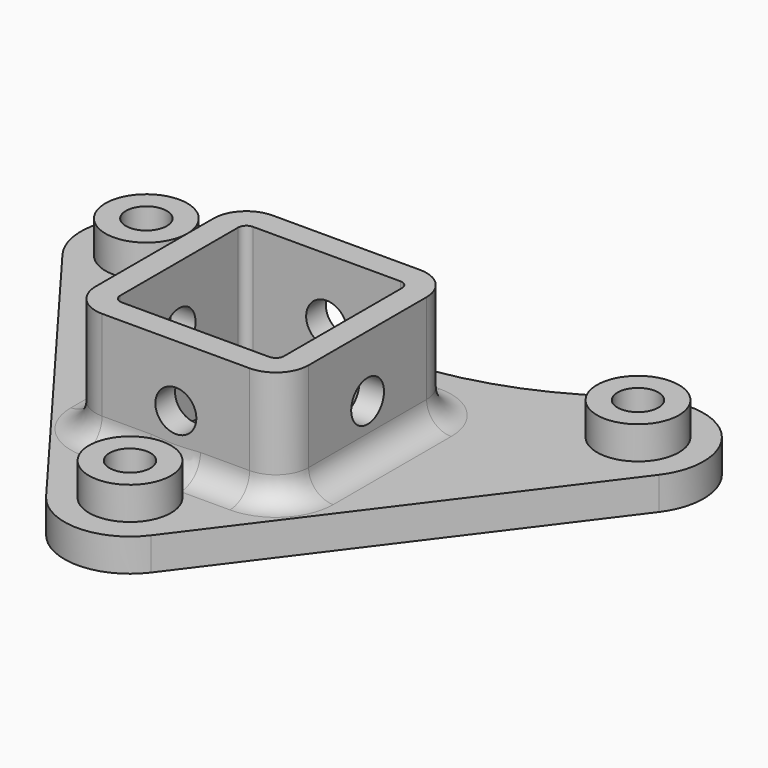
from build123d import *

# Parameters (mm, degrees)
SKETCH102_R           = 2.5
PAD036_DEPTH          = 4
PAD037_DEPTH          = 14
SKETCH104_R           = 2.5
POCKET030_DEPTH       = 4.5
POLARPATTERN018_COUNT = 4
SKETCH105_R           = 5
SKETCH105_R_2         = 2.5
PAD038_DEPTH          = 4
FILLET008_R           = 3


with BuildPart() as part:
    # Sketch102 → Pad036 (new body)
    with BuildSketch(Plane.XY):
        with BuildLine():
            Line((36.4, 15.2), (6.4, -24.8))
            ThreePointArc((-6.4, -24.8), (0, -28), (6.4, -24.8))
            Line((-6.4, -24.8), (-36.4, 15.2))
            ThreePointArc((-25.905574, 26.872821), (-35.949169, 25.348588), (-36.4, 15.2))
            Line((-25.905574, 26.872821), (-20.472131, 23.635893))
            ThreePointArc((-20.472131, 23.635893), (0, 18), (20.472131, 23.635893))
            Line((25.905574, 26.872821), (20.472131, 23.635893))
            ThreePointArc((36.4, 15.2), (35.949169, 25.348588), (25.905574, 26.872821))
        make_face()
        with Locations((30, 20)):
            Circle(SKETCH102_R, mode=Mode.SUBTRACT)
        with Locations((-30, 20)):
            Circle(SKETCH102_R, mode=Mode.SUBTRACT)
        with Locations((0, -20)):
            Circle(SKETCH102_R, mode=Mode.SUBTRACT)
        with BuildLine():
            Line((-9, -10), (9, -10))
            ThreePointArc((9, -10), (9.707107, -9.707107), (10, -9))
            Line((10, -9), (10, 9))
            ThreePointArc((10, 9), (9.707107, 9.707107), (9, 10))
            Line((9, 10), (-9, 10))
            ThreePointArc((-9, 10), (-9.707107, 9.707107), (-10, 9))
            Line((-10, 9), (-10, -9))
            ThreePointArc((-10, -9), (-9.707107, -9.707107), (-9, -10))
        make_face(mode=Mode.SUBTRACT)
    extrude(amount=PAD036_DEPTH)

    # Sketch103 (on Face21 of Pad036) → Pad037 (join)
    with BuildSketch(Plane.XY.offset(4)):
        with BuildLine():
            Line((-9, 13), (9, 13))
            ThreePointArc((13, 9), (11.828427, 11.828427), (9, 13))
            Line((13, 9), (13, -9))
            ThreePointArc((9, -13), (11.828427, -11.828427), (13, -9))
            Line((9, -13), (-9, -13))
            ThreePointArc((-13, -9), (-11.828427, -11.828427), (-9, -13))
            Line((-13, -9), (-13, 9))
            ThreePointArc((-9, 13), (-11.828427, 11.828427), (-13, 9))
        make_face()
        with BuildLine():
            Line((-9, -10), (9, -10))
            ThreePointArc((9, -10), (9.707107, -9.707107), (10, -9))
            Line((10, -9), (10, 9))
            ThreePointArc((10, 9), (9.707107, 9.707107), (9, 10))
            Line((9, 10), (-9, 10))
            ThreePointArc((-9, 10), (-9.707107, 9.707107), (-10, 9))
            Line((-10, 9), (-10, -9))
            ThreePointArc((-10, -9), (-9.707107, -9.707107), (-9, -10))
        make_face(mode=Mode.SUBTRACT)
    extrude(amount=PAD037_DEPTH)

    # Sketch104 → Pocket030 (cut, symmetric)
    with BuildSketch(Plane(origin=(0, 13, 0), x_dir=(-1, 0, 0), z_dir=(0, 1, 0))):
        with Locations((0, 10.5)):
            Circle(SKETCH104_R)
    pocket030 = extrude(amount=POCKET030_DEPTH, both=True, mode=Mode.SUBTRACT)

    # PolarPattern018: Pocket030 ×4 about axis
    polarpattern018_axis = Axis((0, 0, 0), (0, 0, 1))
    for i in range(1, POLARPATTERN018_COUNT):
        add(pocket030.rotate(polarpattern018_axis, i * 360 / POLARPATTERN018_COUNT), mode=Mode.SUBTRACT)

    # Sketch105 (on Face1 of PolarPattern018) → Pad038 (join)
    with BuildSketch(Plane.XY.offset(4)):
        with Locations((30, 20)):
            Circle(SKETCH105_R)
        with Locations((30, 20)):
            Circle(SKETCH105_R_2, mode=Mode.SUBTRACT)
        with Locations((-30, 20)):
            Circle(SKETCH105_R)
        with Locations((-30, 20)):
            Circle(SKETCH105_R_2, mode=Mode.SUBTRACT)
        with Locations((0, -20)):
            Circle(SKETCH105_R)
        with Locations((0, -20)):
            Circle(SKETCH105_R_2, mode=Mode.SUBTRACT)
    extrude(amount=PAD038_DEPTH)

    # Fillet008
    fillet008_edges = [part.edges().sort_by_distance(p)[0] for p in [
        (-11.828427, 11.828427, 4),
    ]]
    fillet(fillet008_edges, radius=FILLET008_R)


solid = part.part
